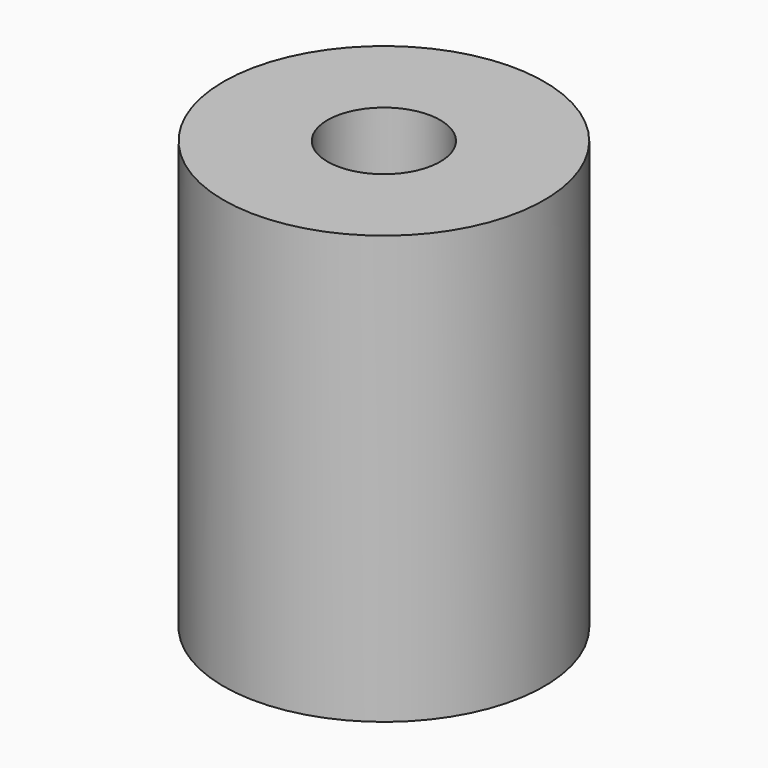
from build123d import *

# Parameters (mm, degrees)
F0_W = 3.855374
F0_H = 10.29076
F2_T = -2.5


with BuildPart() as f1:
    # F0 (on Front) → F1 (revolve)
    with BuildSketch(Plane.XZ):
        Rectangle(F0_W, F0_H)
    revolve(axis=Axis((1.927687, 0, 0), (0, 0, -1)))

    # F2
    f2_openings = [f1.faces().sort_by_distance(p)[0] for p in [
        (1.927687, 0, 5.14538),
    ]]
    offset(amount=F2_T, openings=f2_openings)


solid = f1.part
